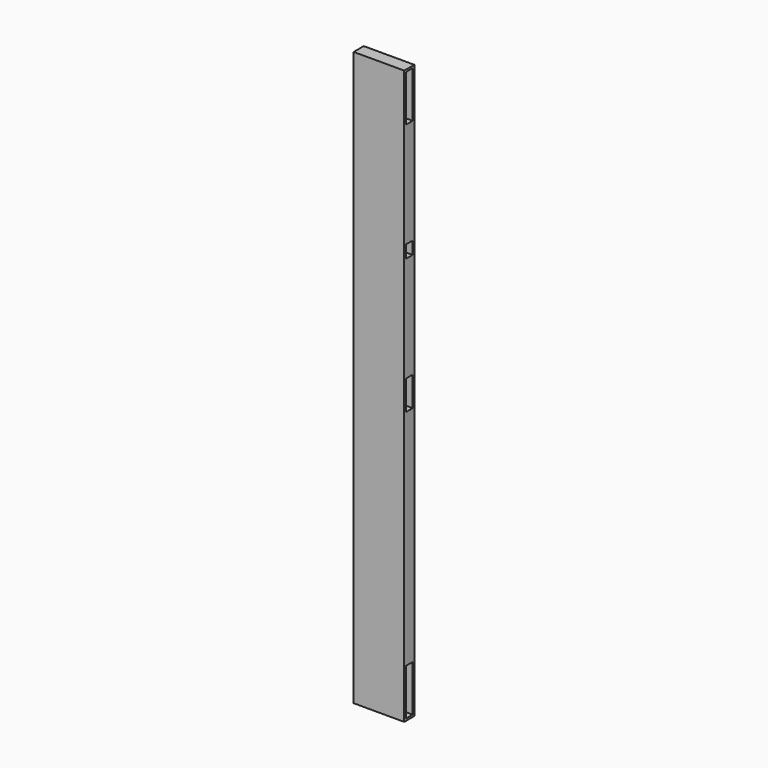
from build123d import *

# Parameters (mm, degrees)
F0_W     = 76.2
F0_H     = 863.6
F1_DEPTH = 9.525
F2_W     = 12.7
F2_H     = 69.85
F3_DEPTH = 38.1
F2_H_2   = 44.45
F4_DEPTH = 38.1
F5_DEPTH = 38.1
F6_W     = 12.7
F6_H     = 19.05
F7_DEPTH = 25.4


with BuildPart() as f1:
    # F0 (on Front) → F1 (new body, symmetric)
    with BuildSketch(Plane.XZ):
        Rectangle(F0_W, F0_H)
    extrude(amount=F1_DEPTH, both=True)

    # F2 (on face) → F3 (cut)
    with BuildSketch(Plane.YZ.offset(38.1)):
        with Locations((0, 393.7)):
            Rectangle(F2_W, F2_H)
    extrude(amount=-F3_DEPTH, mode=Mode.SUBTRACT)

    # F2 (on face) → F4 (cut)
    with BuildSketch(Plane.YZ.offset(38.1)):
        Rectangle(F2_W, F2_H_2)
    extrude(amount=-F4_DEPTH, mode=Mode.SUBTRACT)

    # F2 (on face) → F5 (cut)
    with BuildSketch(Plane.YZ.offset(38.1)):
        with Locations((0, -393.7)):
            Rectangle(F2_W, F2_H)
    extrude(amount=-F5_DEPTH, mode=Mode.SUBTRACT)

    # F6 (on face) → F7 (cut)
    with BuildSketch(Plane.YZ.offset(38.1)):
        with Locations((0, 190.5)):
            Rectangle(F6_W, F6_H)
    extrude(amount=-F7_DEPTH, mode=Mode.SUBTRACT)


solid = f1.part
